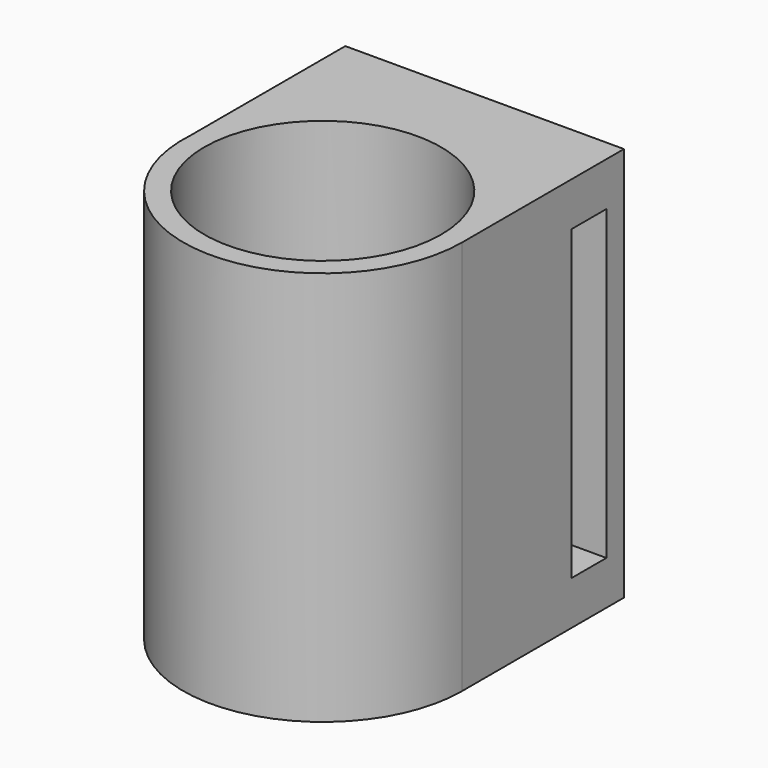
from build123d import *

# Parameters (mm, degrees)
F0_R     = 13.49375
F1_DEPTH = 45
F2_W     = 5
F2_H     = 35
F3_DEPTH = 33.8074


with BuildPart() as f1:
    # F0 (on Top) → F1 (new body)
    with BuildSketch(Plane.XY):
        with BuildLine():
            Line((14.050669, 12.700597), (-17.699331, 12.700597))
            Line((-17.699331, 12.700597), (-17.699331, -9.235959))
            ThreePointArc((-17.699331, -9.235959), (-2.403239, -26.220174), (14.050669, -10.355026))
            Line((14.050669, -10.355026), (14.050669, -10.316926))
            Line((14.050669, -10.316926), (14.050669, 12.700597))
        make_face()
        with Locations((-1.843381, -10.335976)):
            Circle(F0_R, mode=Mode.SUBTRACT)
    extrude(amount=F1_DEPTH)

    # F2 (on face) → F3 (cut)
    with BuildSketch(Plane.YZ.offset(14.050669)):
        with Locations((7.700597, 22.5)):
            Rectangle(F2_W, F2_H)
    extrude(amount=-F3_DEPTH, mode=Mode.SUBTRACT)


solid = f1.part
